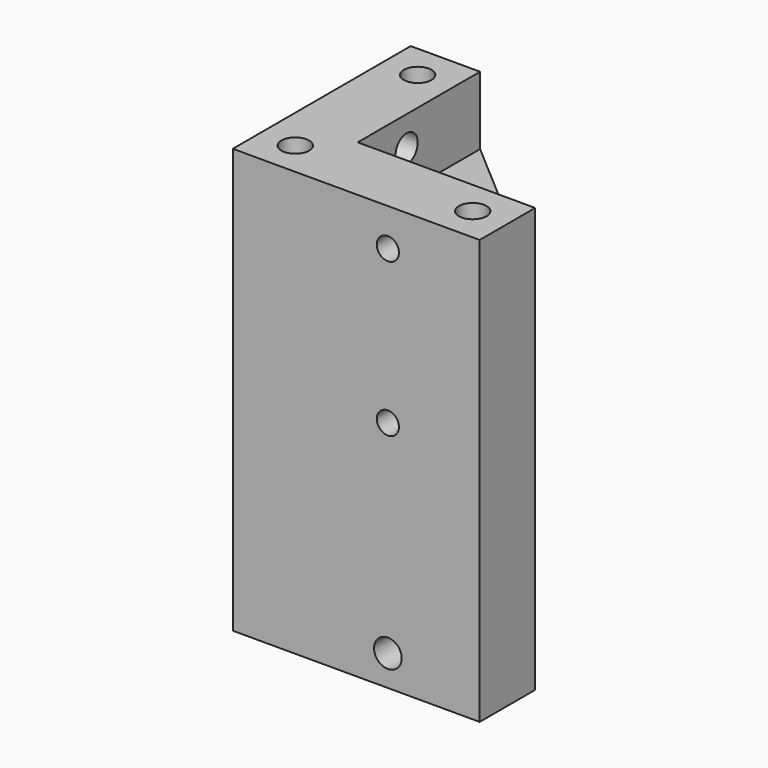
from build123d import *

# Parameters (mm, degrees)
F0_R      = 2.15265
F1_DEPTH  = 66.04
F2_R      = 1.7272
F2_R_2    = 2.15265
F3_DEPTH  = 34.6075
F4_R      = 2.15265
F5_DEPTH  = 38.4175
F7_DEPTH  = 66.04
F9_W      = 23.8125
F9_H      = 9.525
F9_H_2    = 36.3855
F9_H_3    = 10.6045
F10_DEPTH = 27.6225


with BuildPart() as f1:
    # F0 (on Top) → F1 (new body)
    with BuildSketch(Plane.XY):
        Polygon((0, 34.6075), (0, 0), (38.4175, 0), (38.4175, 10.795), (38.4175, 34.6075), (10.795, 34.6075), align=None)
        with Locations((5.3975, 5.3975)):
            Circle(F0_R, mode=Mode.SUBTRACT)
        with Locations((33.02, 5.3975)):
            Circle(F0_R, mode=Mode.SUBTRACT)
        with Locations((5.3975, 29.21)):
            Circle(F0_R, mode=Mode.SUBTRACT)
    extrude(amount=F1_DEPTH)

    # F2 (on face) → F3 (cut, through all)
    with BuildSketch(Plane.XZ):
        with Locations((24.13, 60.198)):
            Circle(F2_R)
        with Locations((24.13, 36.322)):
            Circle(F2_R)
        with Locations((24.13, 4.7625)):
            Circle(F2_R_2)
    extrude(amount=-F3_DEPTH, mode=Mode.SUBTRACT)

    # F4 (on face) → F5 (cut, through all)
    with BuildSketch(Plane(origin=(0, 0, 0), x_dir=(0, -1, 0), z_dir=(-1, 0, 0))):
        with Locations((-20.32, 61.2775)):
            Circle(F4_R)
        with Locations((-20.32, 4.7625)):
            Circle(F4_R)
    extrude(amount=-F5_DEPTH, mode=Mode.SUBTRACT)

    # F6 (on face) → F7 (cut, through all)
    with BuildSketch(Plane.XY.offset(66.04)):
        Polygon((38.4175, 10.795), (38.4175, 34.6075), (10.795, 34.6075), align=None)
    extrude(amount=-F7_DEPTH, mode=Mode.SUBTRACT)

    # F9 (on face) → F10 (cut, through all)
    with BuildSketch(Plane.YZ.offset(38.4175)):
        with Locations((22.70125, 4.7625)):
            Rectangle(F9_W, F9_H)
        with Locations((22.70125, 32.48025)):
            Rectangle(F9_W, F9_H_2)
        with Locations((22.70125, 60.73775)):
            Rectangle(F9_W, F9_H_3)
    extrude(amount=-F10_DEPTH, mode=Mode.SUBTRACT)


solid = f1.part
